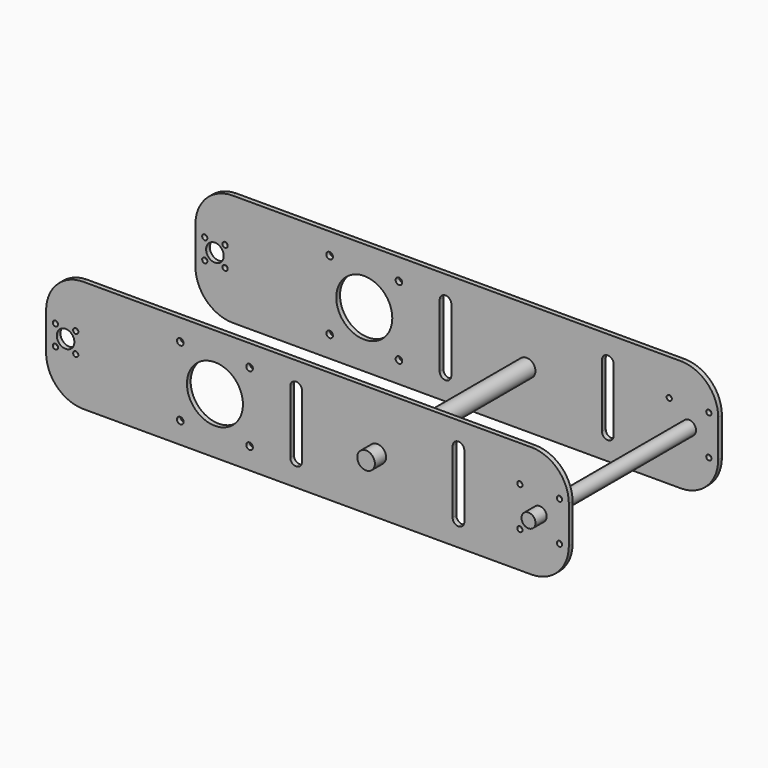
from build123d import *

# Parameters (mm, degrees)
F0_R          = 2.25
F0_R_2        = 1.778
F0_R_3        = 6
F0_R_4        = 19.05
F0_R_5        = 4.7625
F1_DEPTH      = 3.175
F3_DEPTH      = 139.7
F3_DEPTH_BACK = 12.7
F4_DEPTH      = 139.7
F4_DEPTH_BACK = 12.7


with BuildPart() as f1:
    # F0 (on Front) → F1 (new body)
    with BuildSketch(Plane.XZ):
        with BuildLine():
            ThreePointArc((177.8, 12.7), (170.360512, 30.660512), (152.4, 38.1))
            Line((152.4, 38.1), (-152.4, 38.1))
            ThreePointArc((-152.4, 38.1), (-170.360512, 30.660512), (-177.8, 12.7))
            Line((-177.8, 12.7), (-177.8, -12.7))
            ThreePointArc((-177.8, -12.7), (-170.360512, -30.660512), (-152.4, -38.1))
            Line((-152.4, -38.1), (152.4, -38.1))
            ThreePointArc((152.4, -38.1), (170.360512, -30.660512), (177.8, -12.7))
            Line((177.8, -12.7), (177.8, 12.7))
        make_face()
        with Locations((-86.5112, -23.57)):
            Circle(F0_R, mode=Mode.SUBTRACT)
        with Locations((-39.3712, -23.57)):
            Circle(F0_R, mode=Mode.SUBTRACT)
        with Locations((-171.45, -6.9088)):
            Circle(F0_R_2, mode=Mode.SUBTRACT)
        with Locations((-157.6324, -6.9088)):
            Circle(F0_R_2, mode=Mode.SUBTRACT)
        with Locations((144.5006, -13.4747)):
            Circle(F0_R_2, mode=Mode.SUBTRACT)
        with Locations((171.45, -13.4747)):
            Circle(F0_R_2, mode=Mode.SUBTRACT)
        with Locations((-164.5412, 0)):
            Circle(F0_R_3, mode=Mode.SUBTRACT)
        with Locations((-171.45, 6.9088)):
            Circle(F0_R_2, mode=Mode.SUBTRACT)
        with Locations((-157.6324, 6.9088)):
            Circle(F0_R_2, mode=Mode.SUBTRACT)
        with Locations((-62.9412, 0)):
            Circle(F0_R_4, mode=Mode.SUBTRACT)
        with BuildLine():
            Line((-3.72745, 21.43125), (-3.72745, -21.43125))
            ThreePointArc((-3.72745, -21.43125), (-4.88987, -24.23758), (-7.6962, -25.4))
            ThreePointArc((-7.6962, -25.4), (-10.50253, -24.23758), (-11.66495, -21.43125))
            Line((-11.66495, -21.43125), (-11.66495, 21.43125))
            ThreePointArc((-11.66495, 21.43125), (-10.50253, 24.23758), (-7.6962, 25.4))
            ThreePointArc((-7.6962, 25.4), (-4.88987, 24.23758), (-3.72745, 21.43125))
        make_face(mode=Mode.SUBTRACT)
        with Locations((-86.5112, 23.57)):
            Circle(F0_R, mode=Mode.SUBTRACT)
        with Locations((-39.3712, 23.57)):
            Circle(F0_R, mode=Mode.SUBTRACT)
        with Locations((47.4853, 0)):
            Circle(F0_R_3, mode=Mode.SUBTRACT)
        with BuildLine():
            Line((106.69905, 21.43125), (106.69905, -21.43125))
            ThreePointArc((106.69905, -21.43125), (105.53663, -24.23758), (102.7303, -25.4))
            ThreePointArc((102.7303, -25.4), (99.92397, -24.23758), (98.76155, -21.43125))
            Line((98.76155, -21.43125), (98.76155, 21.43125))
            ThreePointArc((98.76155, 21.43125), (99.92397, 24.23758), (102.7303, 25.4))
            ThreePointArc((102.7303, 25.4), (105.53663, 24.23758), (106.69905, 21.43125))
        make_face(mode=Mode.SUBTRACT)
        with Locations((157.9753, 0)):
            Circle(F0_R_5, mode=Mode.SUBTRACT)
        with Locations((144.5006, 13.4747)):
            Circle(F0_R_2, mode=Mode.SUBTRACT)
        with Locations((171.45, 13.4747)):
            Circle(F0_R_2, mode=Mode.SUBTRACT)
    extrude(amount=F1_DEPTH)


with BuildPart() as f2_1:
    # F2: copy of F1
    add(f1.part.moved(Location((0, -127, 0))))


with BuildPart() as f3:
    # F0 (on Front) → F3 (new body, two sides)
    with BuildSketch(Plane.XZ) as f3_sk:
        with Locations((47.4853, 0)):
            Circle(F0_R_3)
    extrude(amount=F3_DEPTH)
    extrude(f3_sk.sketch, amount=-F3_DEPTH_BACK)


with BuildPart() as f4:
    # F0 (on Front) → F4 (new body, two sides)
    with BuildSketch(Plane.XZ) as f4_sk:
        with Locations((157.9753, 0)):
            Circle(F0_R_5)
    extrude(amount=F4_DEPTH)
    extrude(f4_sk.sketch, amount=-F4_DEPTH_BACK)


solid = Compound([f1.part, f2_1.part, f3.part, f4.part])
